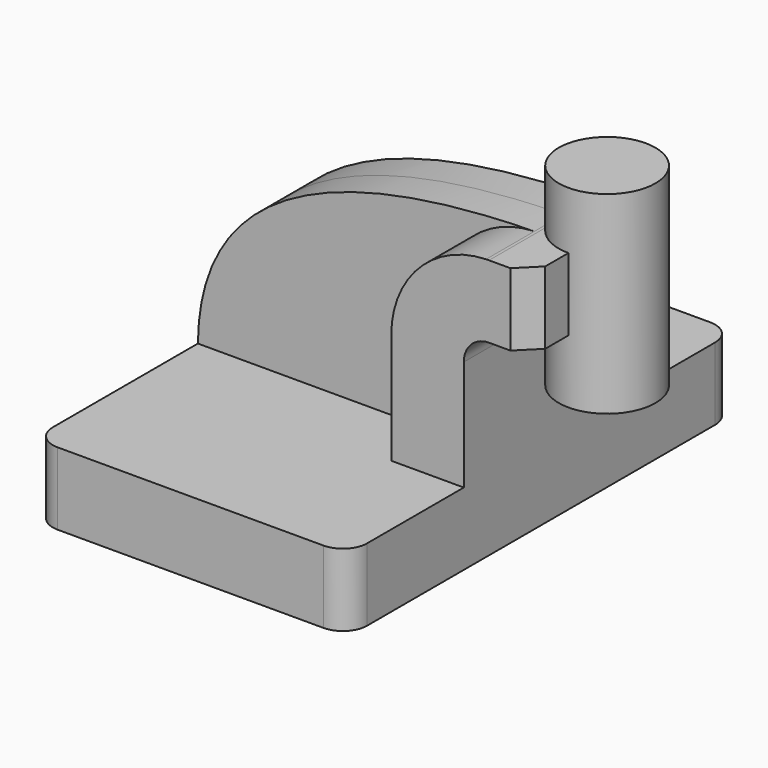
from build123d import *

# Parameters (mm, degrees)
F1_DEPTH = 63.5
F2_DEPTH = 25.4
F3_DEPTH = 9.525
F0_W     = 12.7
F0_H     = 19.05
F0_H_2   = 15.0751015409
F0_H_3   = 16.6748984591
F5_R     = 6.35
F6_SIZE  = 5.08


with BuildPart() as f1:
    # F0 (on Front) → F1 (new body, symmetric)
    with BuildSketch(Plane.XZ):
        Polygon((-41.275, -9.525), (41.275, -9.525), (41.275, 9.525), (22.225, 9.525), (-41.275, 9.525), align=None)
    extrude(amount=F1_DEPTH, both=True)

    # F0 (on Front) → F2 (join, symmetric)
    with BuildSketch(Plane.XZ):
        with BuildLine():
            Line((22.225, 9.525), (41.275, 9.525))
            Line((41.275, 9.525), (41.275, 38.5433479412))
            ThreePointArc((41.275, 38.5433479412), (43.2187539116, 43.2359849966), (47.911390967, 45.1797389083))
            Line((47.911390967, 45.1797389083), (58.6059387632, 45.1797389083))
            Line((58.6059387632, 45.1797389083), (58.6059387632, 64.2297389083))
            Line((58.6059387632, 64.2297389083), (47.911390967, 64.2297389083))
            add(Edge.make_bspline(
                [(47.1281210154, 64.2177937793), (47.3889968052, 64.2221283934), (47.6500885902, 64.2261091673), (47.911390967, 64.2297389083)],
                knots=[104.0564336435, 104.0564336435, 104.0564336435, 104.0564336435, 104.6270557397, 104.6270557397, 104.6270557397, 104.6270557397], degree=3))
            ThreePointArc((47.1281210154, 64.2177937793), (29.473521525, 56.4272974868), (22.225, 38.5433479412))
            Line((22.225, 38.5433479412), (22.225, 9.525))
        make_face()
    extrude(amount=F2_DEPTH, both=True)

    # F0 (on Front) → F3 (join, symmetric)
    with BuildSketch(Plane.XZ):
        with BuildLine():
            add(Edge.make_bspline(
                [(-41.275, 9.525), (-40.8338249741, 50.8703959556), (-0.4441768284, 63.4273503677), (47.1281210154, 64.2177937793)],
                knots=[0, 0, 0, 0, 104.0564336435, 104.0564336435, 104.0564336435, 104.0564336435], degree=3))
            Line((-41.275, 9.525), (22.225, 9.525))
            Line((22.225, 9.525), (22.225, 38.5433479412))
            ThreePointArc((22.225, 38.5433479412), (29.473521525, 56.4272974868), (47.1281210154, 64.2177937793))
        make_face()
    extrude(amount=F3_DEPTH, both=True)

    # F0 (on Front) → F4 (revolve)
    with BuildSketch(Plane.XZ):
        with Locations((64.9559387632, 54.7047389083)):
            Rectangle(F0_W, F0_H)
        with Locations((64.9559387632, 71.7672896787)):
            Rectangle(F0_W, F0_H_2)
        with Locations((64.9559387632, 36.8422896787)):
            Rectangle(F0_W, F0_H_3)
    revolve(axis=Axis((58.6059387632, 0, 53.9048404491), (0, 0, 1)))

    # F5
    f5_edges = [f1.edges().sort_by_distance(p)[0] for p in [
        (-41.275, -63.5, 0),
        (41.275, -63.5, 0),
        (-41.275, 63.5, 0),
        (41.275, 63.5, 0),
    ]]
    fillet(f5_edges, radius=F5_R)

    # F6
    f6_edges = [f1.edges().sort_by_distance(p)[0] for p in [
        (58.605939, -25.4, 54.704739),
        (58.605939, 25.4, 54.704739),
    ]]
    chamfer(f6_edges, length=F6_SIZE)


solid = f1.part
